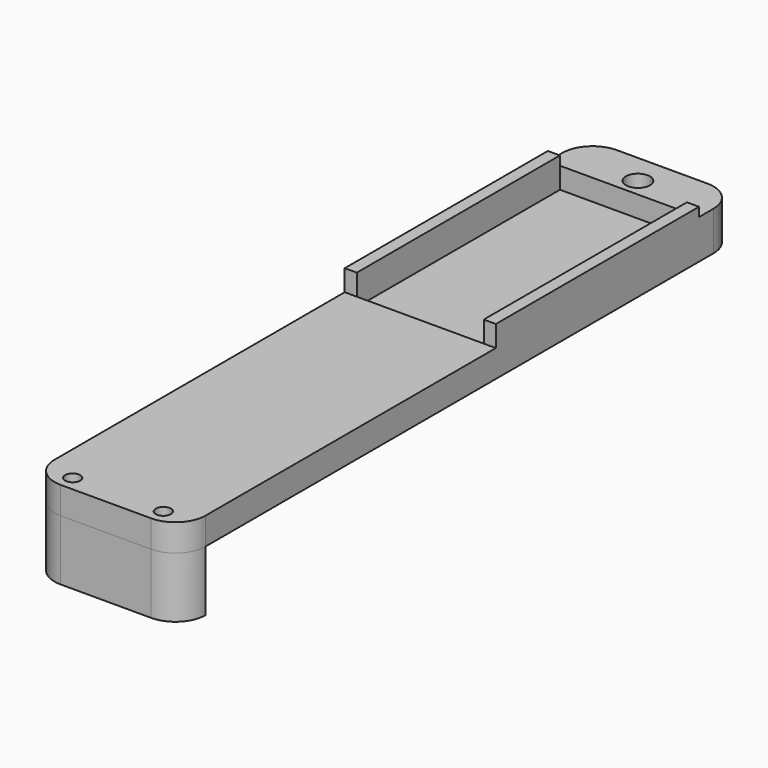
from build123d import *

# Parameters (mm, degrees)
PAD_DEPTH         = 3
PAD001_DEPTH      = 3.5
PAD002_DEPTH      = 1.5
SKETCH001_R       = 2
SKETCH001_R_2     = 1.25
POCKET_DEPTH      = 3.001
POCKET_DEPTH_BACK = -3.501
SKETCH008_W       = 2
SKETCH008_H       = 42
PAD004_DEPTH      = 5
PAD003_DEPTH      = 10
SKETCH007_R       = 1
POCKET001_DEPTH   = 5


with BuildPart() as body:
    # Sketch → Pad (new body)
    with BuildSketch(Plane.XY):
        with BuildLine():
            Line((-12.5, 0), (-12.5, -105))
            ThreePointArc((-12.5, -105), (-11.035534, -108.535534), (-7.5, -110))
            Line((-7.5, -110), (7.5, -110))
            ThreePointArc((7.5, -110), (11.035534, -108.535534), (12.5, -105))
            Line((12.5, -105), (12.5, 0))
            ThreePointArc((12.5, 0), (11.035534, 3.535534), (7.5, 5))
            Line((7.5, 5), (-7.5, 5))
            ThreePointArc((-7.5, 5), (-11.035534, 3.535534), (-12.5, 0))
        make_face()
    extrude(amount=-PAD_DEPTH)

    # Sketch002 → Pad001 (join)
    with BuildSketch(Plane.XY):
        with BuildLine():
            Line((-12.5, 0), (-12.5, -3))
            Line((-12.5, -3), (12.5, -3))
            Line((12.5, -3), (12.5, 0))
            ThreePointArc((12.5, 0), (11.035534, 3.535534), (7.5, 5))
            Line((7.5, 5), (-7.5, 5))
            ThreePointArc((-7.5, 5), (-11.035534, 3.535534), (-12.5, 0))
        make_face()
    extrude(amount=PAD001_DEPTH)

    # Sketch003 → Pad002 (join)
    with BuildSketch(Plane.XY):
        with BuildLine():
            Line((-12.5, -45), (-12.5, -105))
            ThreePointArc((-12.5, -105), (-11.035534, -108.535534), (-7.5, -110))
            Line((-7.5, -110), (7.5, -110))
            ThreePointArc((7.5, -110), (11.035534, -108.535534), (12.5, -105))
            Line((12.5, -105), (12.5, -45))
            Line((12.5, -45), (-12.5, -45))
        make_face()
    extrude(amount=PAD002_DEPTH)

    # Sketch001 → Pocket (cut, two sides)
    with BuildSketch(Plane.XY) as pocket_sk:
        Circle(SKETCH001_R)
        with Locations((7.5, -107.5)):
            Circle(SKETCH001_R_2)
        with Locations((-7.5, -107.5)):
            Circle(SKETCH001_R_2)
    extrude(amount=-POCKET_DEPTH, mode=Mode.SUBTRACT)
    extrude(pocket_sk.sketch, amount=-POCKET_DEPTH_BACK, mode=Mode.SUBTRACT)

    # Sketch008 → Pad004 (join)
    with BuildSketch(Plane.XY):
        with Locations((-11.5, -24)):
            Rectangle(SKETCH008_W, SKETCH008_H)
        with Locations((11.5, -24)):
            Rectangle(SKETCH008_W, SKETCH008_H)
    extrude(amount=PAD004_DEPTH)


with BuildPart() as tab:
    # Sketch005 → Pad003 (new body)
    with BuildSketch(Plane.XY):
        with BuildLine():
            Line((-7.5, -110), (7.5, -110))
            ThreePointArc((7.5, -110), (11.035534, -108.535534), (12.5, -105))
            Line((12.5, -105), (-12.5, -105))
            ThreePointArc((-12.5, -105), (-11.035534, -108.535534), (-7.5, -110))
        make_face()
    extrude(amount=-PAD003_DEPTH)

    # Sketch007 → Pocket001 (cut)
    with BuildSketch(Plane.XY):
        with Locations((7.5, -107.5)):
            Circle(SKETCH007_R)
        with Locations((-7.5, -107.5)):
            Circle(SKETCH007_R)
    extrude(amount=-POCKET001_DEPTH, mode=Mode.SUBTRACT)


with BuildPart() as tab_1:
    # Body001 placement: moved
    add(tab.part.moved(Location((0, 0, -3))))


solid = Compound([body.part, tab_1.part])
